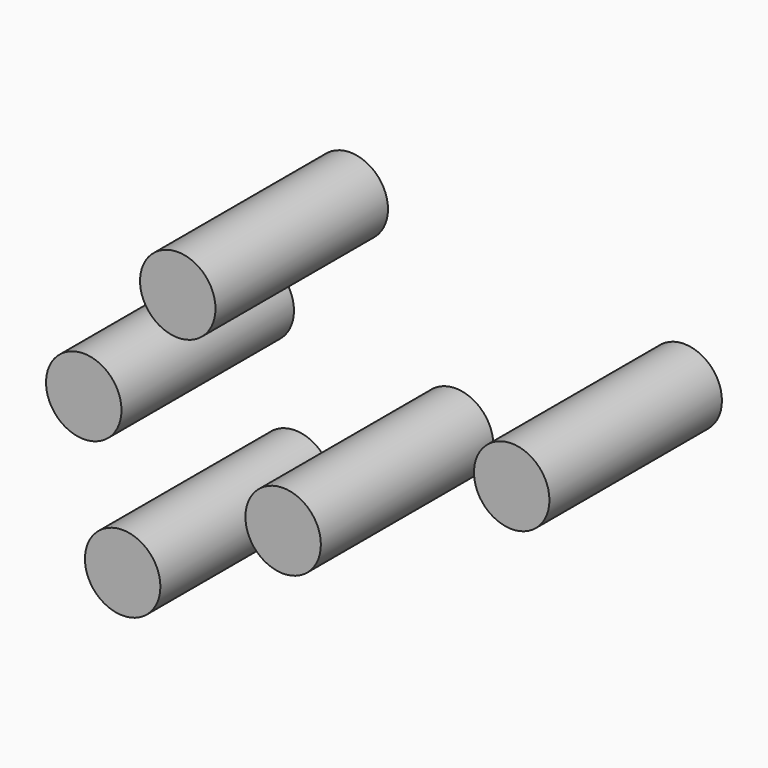
from build123d import *

# Parameters (mm, degrees)
F0_R     = 4.445
F1_DEPTH = 25.4


with BuildPart() as f1:
    # F0 (on Front) → F1 (new body)
    with BuildSketch(Plane.XZ):
        with Locations((-33.703495, 23.010036)):
            Circle(F0_R)
        with Locations((-6.77889, 36.376864)):
            Circle(F0_R)
        with Locations((-46.115551, 43.442186)):
            Circle(F0_R)
        with Locations((-57.190917, 29.31154)):
            Circle(F0_R)
        with Locations((-52.608009, 12.50753)):
            Circle(F0_R)
    extrude(amount=F1_DEPTH)


solid = f1.part
